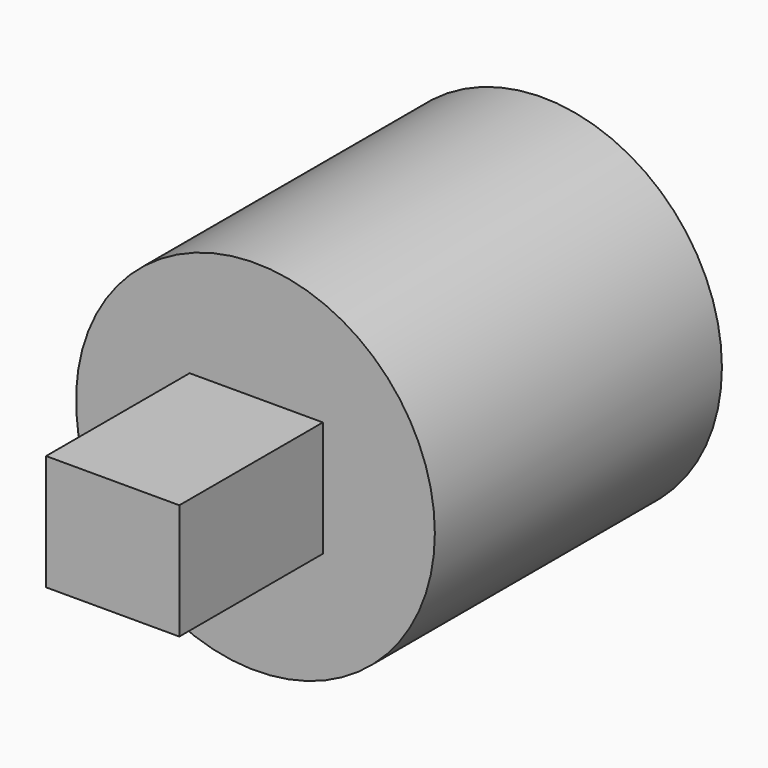
from build123d import *

# Parameters (mm, degrees)
F0_R     = 25
F1_DEPTH = 50
F2_W     = 18.568892
F2_H     = 16.107955
F3_DEPTH = 25


with BuildPart() as f1:
    # F0 (on Front) → F1 (new body)
    with BuildSketch(Plane.XZ):
        Circle(F0_R)
    extrude(amount=F1_DEPTH)

    # F2 (on face) → F3 (join)
    with BuildSketch(Plane.XZ.offset(50)):
        with Locations((0.11186, 0.447443)):
            Rectangle(F2_W, F2_H)
    extrude(amount=F3_DEPTH)


solid = f1.part
